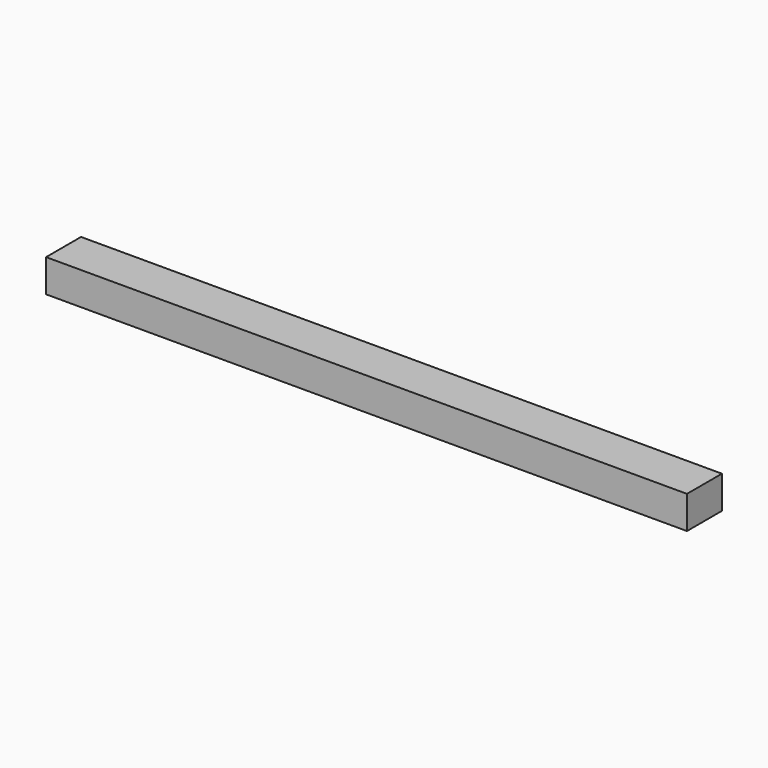
from build123d import *

# Parameters (mm, degrees)
BOX_W     = 704
BOX_H     = 48
BOX_DEPTH = 36


with BuildPart() as part:
    # Box → Box (new body)
    with BuildSketch(Plane.XY):
        with Locations((352, 24)):
            Rectangle(BOX_W, BOX_H)
    extrude(amount=BOX_DEPTH)


solid = part.part
